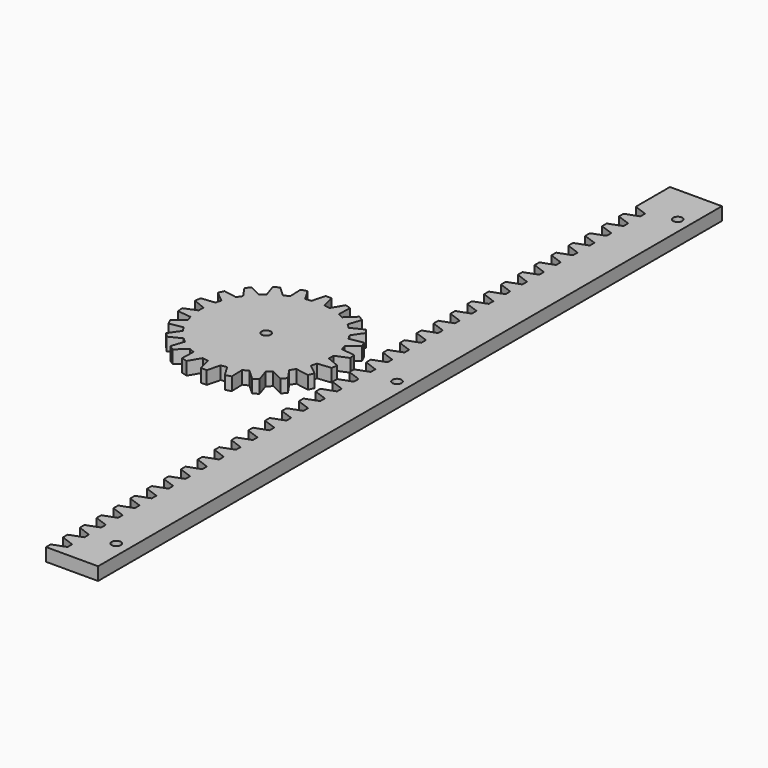
from build123d import *

# Parameters (mm, degrees)
F0_R     = 25
F1_DEPTH = 0.1
F3_DEPTH = 5
F4_W     = 20
F4_H     = 300
F5_DEPTH = 5
F7_DEPTH = 5
F10_D    = 3.5
F11_D    = 3.5


with BuildPart() as f1:
    # F0 (on Top) → F1 (new body)
    with BuildSketch(Plane.XY):
        Circle(F0_R)
    extrude(amount=F1_DEPTH)

    # F2 (on face) → F3 (join)
    with BuildSketch(Plane.XY.offset(0.01)):
        with BuildLine():
            Line((-1.138119, 30), (-2.440677, 24.917665))
            ThreePointArc((-2.440677, 24.917665), (0, 25.036912), (2.440677, 24.917665))
            Line((2.440677, 24.917665), (1.138119, 30))
            Line((1.138119, 30), (-1.138119, 30))
        make_face()
        with BuildLine():
            ThreePointArc((2.440677, 24.917665), (0, 25.036912), (-2.440677, 24.917665))
            ThreePointArc((-2.440677, 24.917665), (-3.563124, 24.782072), (-4.678305, 24.595943))
            ThreePointArc((-4.678305, 24.595943), (-7.053713, 24.022741), (-9.36193, 23.220706))
            ThreePointArc((-9.36193, 23.220706), (-10.400709, 22.774376), (-11.418278, 22.281604))
            ThreePointArc((-11.418278, 22.281604), (-13.535976, 21.06239), (-15.524735, 19.642544))
            ThreePointArc((-15.524735, 19.642544), (-16.39569, 18.921635), (-17.233211, 18.162141))
            ThreePointArc((-17.233211, 18.162141), (-18.921635, 16.39569), (-20.429819, 14.47306))
            ThreePointArc((-20.429819, 14.47306), (-21.06239, 13.535976), (-21.652011, 12.57129))
            ThreePointArc((-21.652011, 12.57129), (-22.774376, 10.400709), (-23.6798, 8.131054))
            ThreePointArc((-23.6798, 8.131054), (-24.022741, 7.053713), (-24.316695, 5.961988))
            ThreePointArc((-24.316695, 5.961988), (-24.782072, 3.563124), (-25.011384, 1.130319))
            ThreePointArc((-25.011384, 1.130319), (-25.036912, 0), (-25.011384, -1.130319))
            ThreePointArc((-25.011384, -1.130319), (-24.782072, -3.563124), (-24.316695, -5.961988))
            ThreePointArc((-24.316695, -5.961988), (-24.022741, -7.053713), (-23.6798, -8.131054))
            ThreePointArc((-23.6798, -8.131054), (-22.774376, -10.400709), (-21.652011, -12.57129))
            ThreePointArc((-21.652011, -12.57129), (-21.06239, -13.535976), (-20.429819, -14.47306))
            ThreePointArc((-20.429819, -14.47306), (-18.921635, -16.39569), (-17.233211, -18.162141))
            ThreePointArc((-17.233211, -18.162141), (-16.39569, -18.921635), (-15.524735, -19.642544))
            ThreePointArc((-15.524735, -19.642544), (-13.535976, -21.06239), (-11.418278, -22.281604))
            ThreePointArc((-11.418278, -22.281604), (-10.400709, -22.774376), (-9.36193, -23.220706))
            ThreePointArc((-9.36193, -23.220706), (-7.053713, -24.022741), (-4.678305, -24.595943))
            ThreePointArc((-4.678305, -24.595943), (-3.563124, -24.782072), (-2.440677, -24.917665))
            ThreePointArc((-2.440677, -24.917665), (0, -25.036912), (2.440677, -24.917665))
            ThreePointArc((2.440677, -24.917665), (3.563124, -24.782072), (4.678305, -24.595943))
            ThreePointArc((4.678305, -24.595943), (7.053713, -24.022741), (9.36193, -23.220706))
            ThreePointArc((9.36193, -23.220706), (10.400709, -22.774376), (11.418278, -22.281604))
            ThreePointArc((11.418278, -22.281604), (13.535976, -21.06239), (15.524735, -19.642544))
            ThreePointArc((15.524735, -19.642544), (16.39569, -18.921635), (17.233211, -18.162141))
            ThreePointArc((17.233211, -18.162141), (18.921635, -16.39569), (20.429819, -14.47306))
            ThreePointArc((20.429819, -14.47306), (21.06239, -13.535976), (21.652011, -12.57129))
            ThreePointArc((21.652011, -12.57129), (22.774376, -10.400709), (23.6798, -8.131054))
            ThreePointArc((23.6798, -8.131054), (24.022741, -7.053713), (24.316695, -5.961988))
            ThreePointArc((24.316695, -5.961988), (24.782072, -3.563124), (25.011384, -1.130319))
            ThreePointArc((25.011384, -1.130319), (25.030529, -0.565303), (25.036912, 0))
            ThreePointArc((25.036912, 0), (25.030529, 0.565303), (25.011384, 1.130319))
            ThreePointArc((25.011384, 1.130319), (24.782072, 3.563124), (24.316695, 5.961988))
            ThreePointArc((24.316695, 5.961988), (24.022741, 7.053713), (23.6798, 8.131054))
            ThreePointArc((23.6798, 8.131054), (22.774376, 10.400709), (21.652011, 12.57129))
            ThreePointArc((21.652011, 12.57129), (21.06239, 13.535976), (20.429819, 14.47306))
            ThreePointArc((20.429819, 14.47306), (18.921635, 16.39569), (17.233211, 18.162141))
            ThreePointArc((17.233211, 18.162141), (16.39569, 18.921635), (15.524735, 19.642544))
            ThreePointArc((15.524735, 19.642544), (13.535976, 21.06239), (11.418278, 22.281604))
            ThreePointArc((11.418278, 22.281604), (10.400709, 22.774376), (9.36193, 23.220706))
            ThreePointArc((9.36193, 23.220706), (7.053713, 24.022741), (4.678305, 24.595943))
            ThreePointArc((4.678305, 24.595943), (3.563124, 24.782072), (2.440677, 24.917665))
        make_face()
        with BuildLine():
            ThreePointArc((-9.36193, 23.220706), (-7.053713, 24.022741), (-4.678305, 24.595943))
            Line((-4.678305, 24.595943), (-7.359959, 29.105434))
            Line((-7.359959, 29.105434), (-9.543994, 28.464144))
            Line((-9.543994, 28.464144), (-9.36193, 23.220706))
        make_face()
        with BuildLine():
            Line((7.359959, 29.105434), (4.678305, 24.595943))
            ThreePointArc((4.678305, 24.595943), (7.053713, 24.022741), (9.36193, 23.220706))
            Line((9.36193, 23.220706), (9.543994, 28.464144))
            Line((9.543994, 28.464144), (7.359959, 29.105434))
        make_face()
        with BuildLine():
            ThreePointArc((-15.524735, 19.642544), (-13.535976, 21.06239), (-11.418278, 22.281604))
            Line((-11.418278, 22.281604), (-15.261778, 25.85292))
            Line((-15.261778, 25.85292), (-17.176671, 24.622292))
            Line((-17.176671, 24.622292), (-15.524735, 19.642544))
        make_face()
        with BuildLine():
            Line((15.261778, 25.85292), (11.418278, 22.281604))
            ThreePointArc((11.418278, 22.281604), (13.535976, 21.06239), (15.524735, 19.642544))
            Line((15.524735, 19.642544), (17.176671, 24.622292))
            Line((17.176671, 24.622292), (15.261778, 25.85292))
        make_face()
        with BuildLine():
            ThreePointArc((-20.429819, 14.47306), (-18.921635, 16.39569), (-17.233211, 18.162141))
            Line((-17.233211, 18.162141), (-21.927178, 20.505955))
            Line((-21.927178, 20.505955), (-23.417797, 18.785689))
            Line((-23.417797, 18.785689), (-20.429819, 14.47306))
        make_face()
        with BuildLine():
            Line((21.927178, 20.505955), (17.233211, 18.162141))
            ThreePointArc((17.233211, 18.162141), (18.921635, 16.39569), (20.429819, 14.47306))
            Line((20.429819, 14.47306), (23.417797, 18.785689))
            Line((23.417797, 18.785689), (21.927178, 20.505955))
        make_face()
        with BuildLine():
            ThreePointArc((-23.6798, 8.131054), (-22.774376, 10.400709), (-21.652011, 12.57129))
            Line((-21.652011, 12.57129), (-26.816168, 13.49772))
            Line((-26.816168, 13.49772), (-27.761752, 11.427181))
            Line((-27.761752, 11.427181), (-23.6798, 8.131054))
        make_face()
        with BuildLine():
            Line((26.816168, 13.49772), (21.652011, 12.57129))
            ThreePointArc((21.652011, 12.57129), (22.774376, 10.400709), (23.6798, 8.131054))
            Line((23.6798, 8.131054), (27.761752, 11.427181))
            Line((27.761752, 11.427181), (26.816168, 13.49772))
        make_face()
        with BuildLine():
            ThreePointArc((-25.011384, 1.130319), (-24.782072, 3.563124), (-24.316695, 5.961988))
            Line((-24.316695, 5.961988), (-29.532672, 5.39598))
            Line((-29.532672, 5.39598), (-29.856614, 3.14291))
            Line((-29.856614, 3.14291), (-25.011384, 1.130319))
        make_face()
        with BuildLine():
            Line((29.532672, 5.39598), (24.316695, 5.961988))
            ThreePointArc((24.316695, 5.961988), (24.782072, 3.563124), (25.011384, 1.130319))
            Line((25.011384, 1.130319), (29.856614, 3.14291))
            Line((29.856614, 3.14291), (29.532672, 5.39598))
        make_face()
        with BuildLine():
            ThreePointArc((-24.316695, -5.961988), (-24.782072, -3.563124), (-25.011384, -1.130319))
            Line((-25.011384, -1.130319), (-29.856614, -3.14291))
            Line((-29.856614, -3.14291), (-29.532672, -5.39598))
            Line((-29.532672, -5.39598), (-24.316695, -5.961988))
        make_face()
        with BuildLine():
            Line((29.856614, -3.14291), (25.011384, -1.130319))
            ThreePointArc((25.011384, -1.130319), (24.782072, -3.563124), (24.316695, -5.961988))
            Line((24.316695, -5.961988), (29.532672, -5.39598))
            Line((29.532672, -5.39598), (29.856614, -3.14291))
        make_face()
        with BuildLine():
            ThreePointArc((-21.652011, -12.57129), (-22.774376, -10.400709), (-23.6798, -8.131054))
            Line((-23.6798, -8.131054), (-27.761752, -11.427181))
            Line((-27.761752, -11.427181), (-26.816168, -13.49772))
            Line((-26.816168, -13.49772), (-21.652011, -12.57129))
        make_face()
        with BuildLine():
            Line((27.761752, -11.427181), (23.6798, -8.131054))
            ThreePointArc((23.6798, -8.131054), (22.774376, -10.400709), (21.652011, -12.57129))
            Line((21.652011, -12.57129), (26.816168, -13.49772))
            Line((26.816168, -13.49772), (27.761752, -11.427181))
        make_face()
        with BuildLine():
            ThreePointArc((-17.233211, -18.162141), (-18.921635, -16.39569), (-20.429819, -14.47306))
            Line((-20.429819, -14.47306), (-23.417797, -18.785689))
            Line((-23.417797, -18.785689), (-21.927178, -20.505955))
            Line((-21.927178, -20.505955), (-17.233211, -18.162141))
        make_face()
        with BuildLine():
            Line((23.417797, -18.785689), (20.429819, -14.47306))
            ThreePointArc((20.429819, -14.47306), (18.921635, -16.39569), (17.233211, -18.162141))
            Line((17.233211, -18.162141), (21.927178, -20.505955))
            Line((21.927178, -20.505955), (23.417797, -18.785689))
        make_face()
        with BuildLine():
            ThreePointArc((-11.418278, -22.281604), (-13.535976, -21.06239), (-15.524735, -19.642544))
            Line((-15.524735, -19.642544), (-17.176671, -24.622292))
            Line((-17.176671, -24.622292), (-15.261778, -25.85292))
            Line((-15.261778, -25.85292), (-11.418278, -22.281604))
        make_face()
        with BuildLine():
            Line((17.176671, -24.622292), (15.524735, -19.642544))
            ThreePointArc((15.524735, -19.642544), (13.535976, -21.06239), (11.418278, -22.281604))
            Line((11.418278, -22.281604), (15.261778, -25.85292))
            Line((15.261778, -25.85292), (17.176671, -24.622292))
        make_face()
        with BuildLine():
            ThreePointArc((-4.678305, -24.595943), (-7.053713, -24.022741), (-9.36193, -23.220706))
            Line((-9.36193, -23.220706), (-9.543994, -28.464144))
            Line((-9.543994, -28.464144), (-7.359959, -29.105434))
            Line((-7.359959, -29.105434), (-4.678305, -24.595943))
        make_face()
        with BuildLine():
            Line((9.543994, -28.464144), (9.36193, -23.220706))
            ThreePointArc((9.36193, -23.220706), (7.053713, -24.022741), (4.678305, -24.595943))
            Line((4.678305, -24.595943), (7.359959, -29.105434))
            Line((7.359959, -29.105434), (9.543994, -28.464144))
        make_face()
        with BuildLine():
            ThreePointArc((2.440677, -24.917665), (0, -25.036912), (-2.440677, -24.917665))
            Line((-2.440677, -24.917665), (-1.138119, -30))
            Line((-1.138119, -30), (1.138119, -30))
            Line((1.138119, -30), (2.440677, -24.917665))
        make_face()
    extrude(amount=F3_DEPTH)

    # F10 (through all)
    with Locations(Plane.XY.offset(5.01)):
        with Locations((0, 0)):
            Hole(F10_D / 2)


with BuildPart() as f5:
    # F4 (on Top) → F5 (new body)
    with BuildSketch(Plane.XY):
        with Locations((45.329116, 0)):
            Rectangle(F4_W, F4_H)
    extrude(amount=F5_DEPTH)

    # F6 (on face) → F7 (cut)
    with BuildSketch(Plane.XY.offset(5)):
        Polygon((35.329116, -141.898298), (35.329116, -147.769), (40.329116, -145.949149), (40.329116, -143.718149), align=None)
        Polygon((35.329116, 133.569702), (35.329116, 127.699), (40.329116, 129.518851), (40.329116, 131.749851), align=None)
        Polygon((35.329116, 125.467702), (35.329116, 119.597), (40.329116, 121.416851), (40.329116, 123.647851), align=None)
        Polygon((35.329116, 117.365702), (35.329116, 111.495), (40.329116, 113.314851), (40.329116, 115.545851), align=None)
        Polygon((35.329116, 109.263702), (35.329116, 103.393), (40.329116, 105.212851), (40.329116, 107.443851), align=None)
        Polygon((35.329116, 101.161702), (35.329116, 95.291), (40.329116, 97.110851), (40.329116, 99.341851), align=None)
        Polygon((35.329116, 93.059702), (35.329116, 87.189), (40.329116, 89.008851), (40.329116, 91.239851), align=None)
        Polygon((35.329116, 84.957702), (35.329116, 79.087), (40.329116, 80.906851), (40.329116, 83.137851), align=None)
        Polygon((35.329116, 76.855702), (35.329116, 70.985), (40.329116, 72.804851), (40.329116, 75.035851), align=None)
        Polygon((35.329116, 68.753702), (35.329116, 62.883), (40.329116, 64.702851), (40.329116, 66.933851), align=None)
        Polygon((35.329116, 60.651702), (35.329116, 54.781), (40.329116, 56.600851), (40.329116, 58.831851), align=None)
        Polygon((35.329116, 52.549702), (35.329116, 46.679), (40.329116, 48.498851), (40.329116, 50.729851), align=None)
        Polygon((35.329116, 44.447702), (35.329116, 38.577), (40.329116, 40.396851), (40.329116, 42.627851), align=None)
        Polygon((35.329116, 36.345702), (35.329116, 30.475), (40.329116, 32.294851), (40.329116, 34.525851), align=None)
        Polygon((35.329116, 28.243702), (35.329116, 22.373), (40.329116, 24.192851), (40.329116, 26.423851), align=None)
        Polygon((35.329116, 20.141702), (35.329116, 14.271), (40.329116, 16.090851), (40.329116, 18.321851), align=None)
        Polygon((35.329116, 12.039702), (35.329116, 6.169), (40.329116, 7.988851), (40.329116, 10.219851), align=None)
        Polygon((35.329116, 3.937702), (35.329116, -1.933), (40.329116, -0.113149), (40.329116, 2.117851), align=None)
        Polygon((35.329116, -4.164298), (35.329116, -10.035), (40.329116, -8.215149), (40.329116, -5.984149), align=None)
        Polygon((35.329116, -12.266298), (35.329116, -18.137), (40.329116, -16.317149), (40.329116, -14.086149), align=None)
        Polygon((35.329116, -20.368298), (35.329116, -26.239), (40.329116, -24.419149), (40.329116, -22.188149), align=None)
        Polygon((35.329116, -28.470298), (35.329116, -34.341), (40.329116, -32.521149), (40.329116, -30.290149), align=None)
        Polygon((35.329116, -36.572298), (35.329116, -42.443), (40.329116, -40.623149), (40.329116, -38.392149), align=None)
        Polygon((35.329116, -44.674298), (35.329116, -50.545), (40.329116, -48.725149), (40.329116, -46.494149), align=None)
        Polygon((35.329116, -52.776298), (35.329116, -58.647), (40.329116, -56.827149), (40.329116, -54.596149), align=None)
        Polygon((35.329116, -60.878298), (35.329116, -66.749), (40.329116, -64.929149), (40.329116, -62.698149), align=None)
        Polygon((35.329116, -68.980298), (35.329116, -74.851), (40.329116, -73.031149), (40.329116, -70.800149), align=None)
        Polygon((35.329116, -77.082298), (35.329116, -82.953), (40.329116, -81.133149), (40.329116, -78.902149), align=None)
        Polygon((35.329116, -85.184298), (35.329116, -91.055), (40.329116, -89.235149), (40.329116, -87.004149), align=None)
        Polygon((35.329116, -93.286298), (35.329116, -99.157), (40.329116, -97.337149), (40.329116, -95.106149), align=None)
        Polygon((35.329116, -101.388298), (35.329116, -107.259), (40.329116, -105.439149), (40.329116, -103.208149), align=None)
        Polygon((35.329116, -109.490298), (35.329116, -115.361), (40.329116, -113.541149), (40.329116, -111.310149), align=None)
        Polygon((35.329116, -117.592298), (35.329116, -123.463), (40.329116, -121.643149), (40.329116, -119.412149), align=None)
        Polygon((35.329116, -125.694298), (35.329116, -131.565), (40.329116, -129.745149), (40.329116, -127.514149), align=None)
        Polygon((35.329116, -133.796298), (35.329116, -139.667), (40.329116, -137.847149), (40.329116, -135.616149), align=None)
    extrude(amount=-F7_DEPTH, mode=Mode.SUBTRACT)

    # F11 (through all)
    with Locations(Plane.XY.offset(5)):
        with Locations((50.329116, 135), (50.329116, 0), (50.329116, -135)):
            Hole(F11_D / 2)


solid = Compound([f1.part, f5.part])
